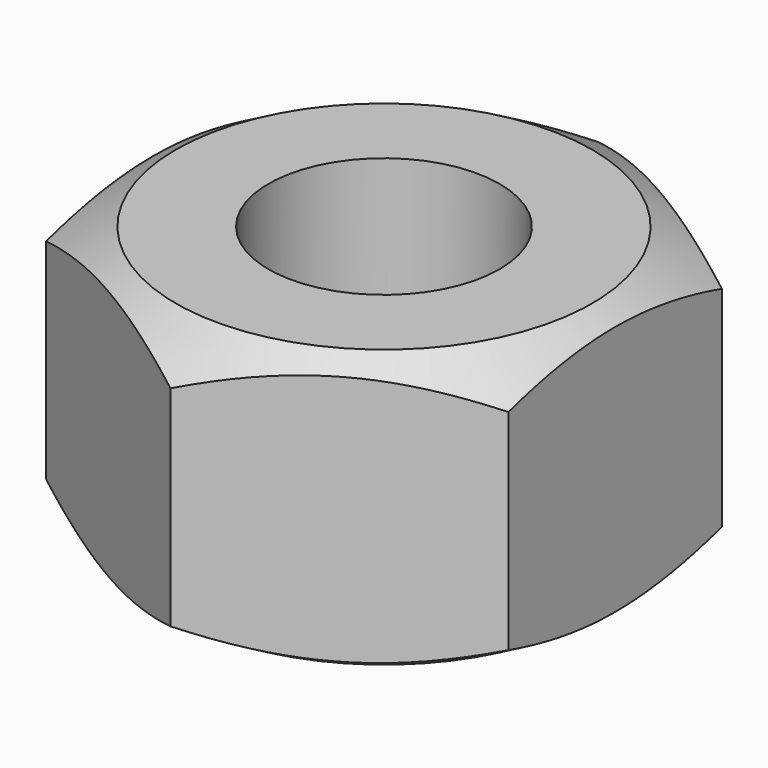
from build123d import *

# Parameters (mm, degrees)
F0_R     = 2.5
F1_DEPTH = 6


with BuildPart() as f1:
    # F0 (on Top) → F1 (new body)
    with BuildSketch(Plane.XY):
        Polygon((-5, 2.886751), (-5, -2.886751), (0, -5.773503), (5, -2.886751), (5, 2.886751), (0, 5.773503), align=None)
        Circle(F0_R, mode=Mode.SUBTRACT)
    extrude(amount=F1_DEPTH)

    # F2 (on Front) → F3 (revolve, intersect)
    with BuildSketch(Plane.XZ):
        Polygon((0, -2.600298), (0, 8.600298), (-9.7, 3), align=None)
    revolve(axis=Axis((0, 0, 3), (0, 0, 1)), mode=Mode.INTERSECT)


solid = f1.part
